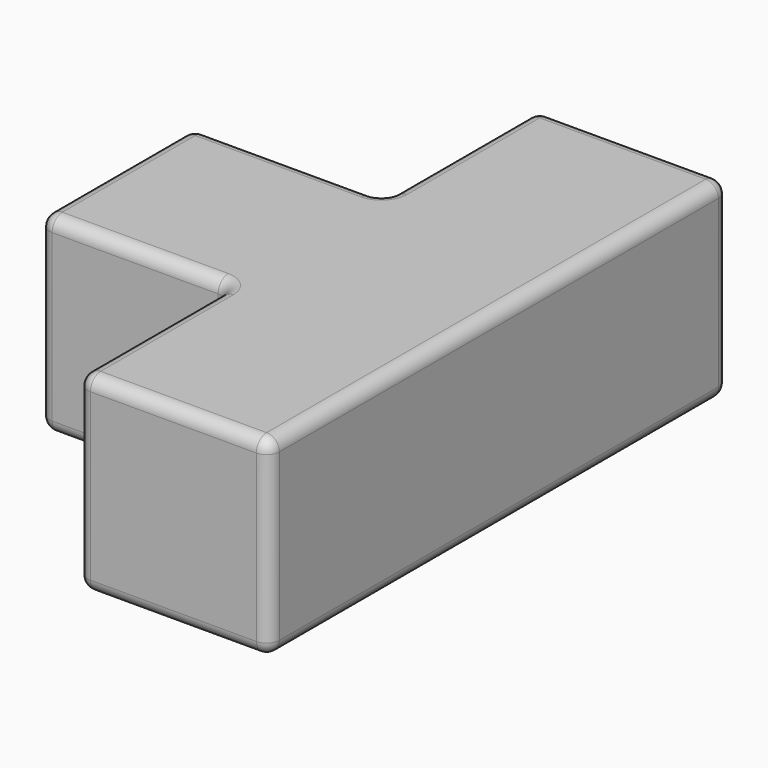
from build123d import *

# Parameters (mm, degrees)
F1_DEPTH = 9.525
F2_R     = 1.27


with BuildPart() as f1:
    # F0 (on Top) → F1 (new body, symmetric)
    with BuildSketch(Plane.XY):
        Polygon((19.05, 16.139283), (0, 16.139283), (0, -2.910717), (-19.05, -2.910717), (-19.05, -21.960717), (0, -21.960717), (0, -41.010717), (19.05, -41.010717), align=None)
    extrude(amount=F1_DEPTH, both=True)

    # F2
    f2_edges = [f1.edges().sort_by_distance(p)[0] for p in [
        (19.05, -41.010717, 0),
        (19.05, -12.435717, -9.525),
        (19.05, 16.139283, 0),
        (19.05, -12.435717, 9.525),
        (9.525, 16.139283, -9.525),
        (0, 16.139283, 0),
        (9.525, 16.139283, 9.525),
        (9.525, -41.010717, 9.525),
        (0, 6.614283, 9.525),
        (-9.525, -2.910717, 9.525),
        (-19.05, -12.435717, 9.525),
        (-9.525, -21.960717, 9.525),
        (0, -31.485717, 9.525),
        (9.525, -41.010717, -9.525),
        (0, 6.614283, -9.525),
        (-9.525, -2.910717, -9.525),
        (-19.05, -12.435717, -9.525),
        (-9.525, -21.960717, -9.525),
        (0, -31.485717, -9.525),
        (-19.05, -2.910717, 0),
        (-19.05, -21.960717, 0),
        (0, -41.010717, 0),
        (0, -2.910717, 0),
        (0, -21.960717, 0),
    ]]
    fillet(f2_edges, radius=F2_R)


solid = f1.part
